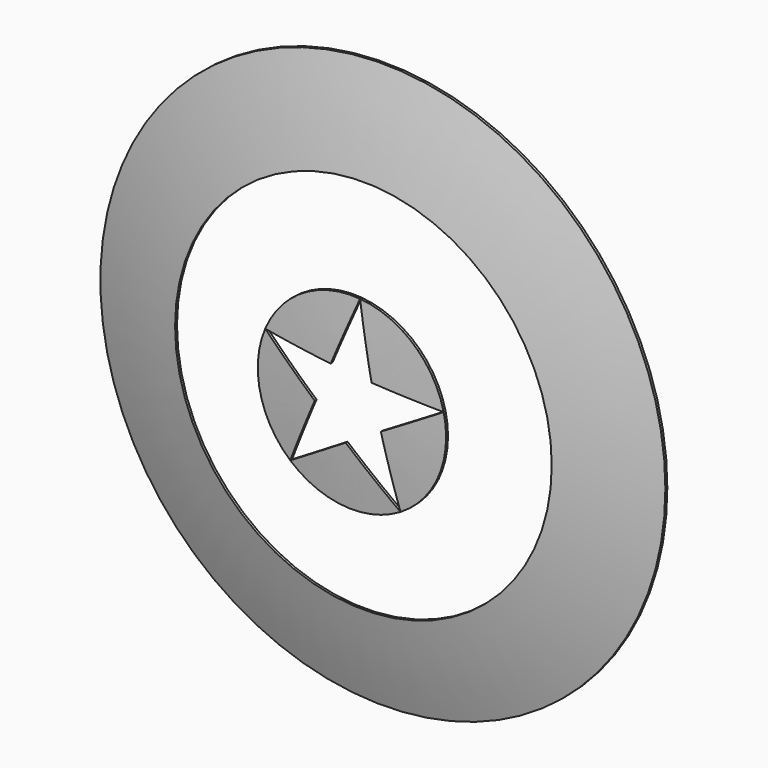
from build123d import *

# Parameters (mm, degrees)
F4_DEPTH = 84.0519311569


with BuildPart() as f1:
    # F0 (on Top) → F1 (revolve)
    with BuildSketch(Plane.XY):
        with BuildLine():
            ThreePointArc((254, 22.4842106661), (317.9242576763, 37.2624085143), (381, 55.3222142005))
            Line((381, 55.3222142005), (381, 58.6509311569))
            ThreePointArc((381, 58.6509311569), (317.9265350577, 40.5426919929), (254, 25.7248506869))
            Line((254, 25.7248506869), (254, 22.4842106661))
        make_face()
    revolve(axis=Axis((0, 0, 0), (0, -1, 0)))


with BuildPart() as f1b:
    # F0 (on Top) → F1, piece 2 (revolve)
    with BuildSketch(Plane.XY):
        with BuildLine():
            Line((0, 0), (0, -3.175))
            ThreePointArc((0, -3.175), (63.5797243259, -1.5825128501), (127, 3.1909548746))
            Line((127, 3.1909548746), (127, 6.3819903304))
            ThreePointArc((127, 6.3819903304), (63.5801262199, 1.5965035714), (0, 0))
        make_face()
    revolve(axis=Axis((0, 0, 0), (0, -1, 0)))

    # F3 (on offset) → F4 (cut, through all)
    with BuildSketch(Plane.XZ.offset(25.4)):
        Polygon((43.3636103, -18.3700851417), (37.1173459995, 8.5972452537), (30.871081699, 35.564575649), (3.2934245792, 37.9573886686), (-24.2842325405, 40.3502016882), (-35.0818976702, 14.8617110677), (-45.8795627998, -10.6267795528), (-24.9752297293, -28.7723460978), (-4.0708966587, -46.9179126428), (19.6463568206, -32.6439988922), align=None)
        Polygon((30.871081699, 35.564575649), (10.9780819308, 126.5246288954), (3.2934245792, 37.9573886686), align=None)
        Polygon((3.2934245792, 37.9573886686), (10.9780819308, 126.5246288954), (-24.2842325405, 40.3502016882), align=None)
        Polygon((-24.2842325405, 40.3502016882), (-116.9396589005, 49.5390368924), (-35.0818976702, 14.8617110677), align=None)
        Polygon((-35.0818976702, 14.8617110677), (-116.9396589005, 49.5390368924), (-45.8795627998, -10.6267795528), align=None)
        Polygon((-45.8795627998, -10.6267795528), (-83.2507657642, -95.907820326), (-24.9752297293, -28.7723460978), align=None)
        Polygon((-24.9752297293, -28.7723460978), (-83.2507657642, -95.907820326), (-4.0708966587, -46.9179126428), align=None)
        Polygon((19.6463568206, -32.6439988922), (65.4878560688, -108.8133296408), (43.3636103, -18.3700851417), align=None)
        Polygon((-4.0708966587, -46.9179126428), (65.4878560688, -108.8133296408), (19.6463568206, -32.6439988922), align=None)
        Polygon((37.1173459995, 8.5972452537), (123.7244866651, 28.6574841789), (30.871081699, 35.564575649), align=None)
        Polygon((43.3636103, -18.3700851417), (123.7244866651, 28.6574841789), (37.1173459995, 8.5972452537), align=None)
    extrude(amount=-F4_DEPTH, mode=Mode.SUBTRACT)


solid = Compound([f1.part, f1b.part])
